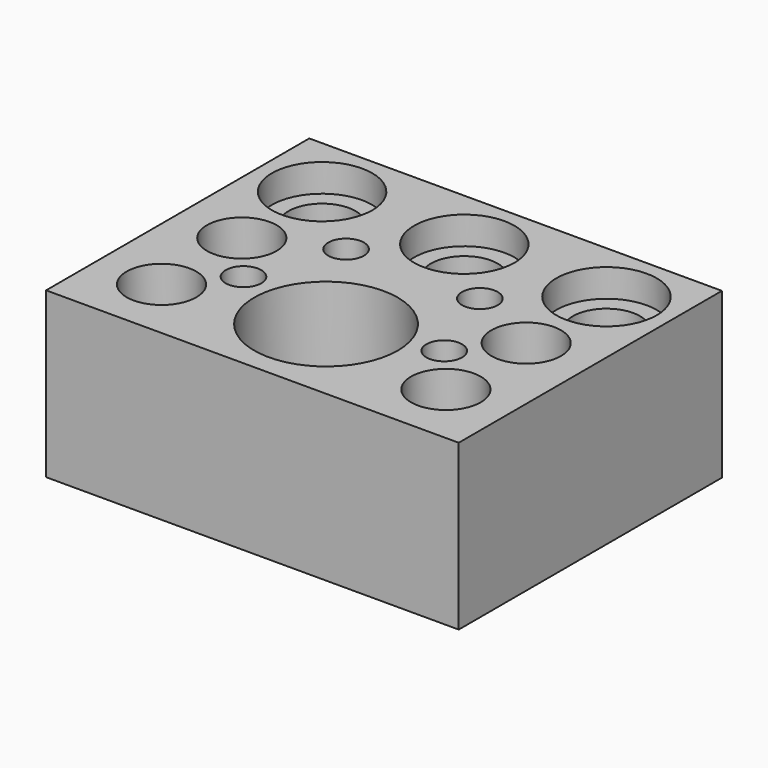
from build123d import *

# Parameters (mm, degrees)
F0_W      = 148
F0_H      = 118
F1_DEPTH  = 59
F2_R      = 14
F3_DEPTH  = 50.5
F2_R_2    = 25.75
F4_DEPTH  = 28
F2_R_3    = 12
F5_DEPTH  = 21.5
F2_R_4    = 18
F6_DEPTH  = 10
F2_R_5    = 6.4
F7_DEPTH  = 8.5
F2_R_6    = 12.5
F8_DEPTH  = 20
F9_W      = 140
F9_H      = 110
F10_DEPTH = 4


with BuildPart() as f1:
    # F0 (on Top) → F1 (new body)
    with BuildSketch(Plane.XY):
        Rectangle(F0_W, F0_H)
    extrude(amount=F1_DEPTH)

    # F2 (on face) → F3 (cut)
    with BuildSketch(Plane.XY.offset(59)):
        with Locations((0, -26)):
            Circle(F2_R)
    extrude(amount=-F3_DEPTH, mode=Mode.SUBTRACT)

    # F2 (on face) → F4 (cut)
    with BuildSketch(Plane.XY.offset(59)):
        with Locations((0, -26)):
            Circle(F2_R_2)
        with Locations((0, -26)):
            Circle(F2_R, mode=Mode.SUBTRACT)
    extrude(amount=-F4_DEPTH, mode=Mode.SUBTRACT)

    # F2 (on face) → F5 (cut)
    with BuildSketch(Plane.XY.offset(59)):
        with Locations((-51, 36)):
            Circle(F2_R_3)
        with Locations((0, 36)):
            Circle(F2_R_3)
        with Locations((51, 36)):
            Circle(F2_R_3)
    extrude(amount=-F5_DEPTH, mode=Mode.SUBTRACT)

    # F2 (on face) → F6 (cut)
    with BuildSketch(Plane.XY.offset(59)):
        with Locations((-51, 36)):
            Circle(F2_R_4)
        with Locations((-51, 36)):
            Circle(F2_R_3, mode=Mode.SUBTRACT)
        with Locations((0, 36)):
            Circle(F2_R_4)
        with Locations((0, 36)):
            Circle(F2_R_3, mode=Mode.SUBTRACT)
        with Locations((51, 36)):
            Circle(F2_R_4)
        with Locations((51, 36)):
            Circle(F2_R_3, mode=Mode.SUBTRACT)
    extrude(amount=-F6_DEPTH, mode=Mode.SUBTRACT)

    # F2 (on face) → F7 (cut)
    with BuildSketch(Plane.XY.offset(59)):
        with Locations((-36, -18)):
            Circle(F2_R_5)
        with Locations((-24, 13)):
            Circle(F2_R_5)
        with Locations((24, 13)):
            Circle(F2_R_5)
        with Locations((36, -18)):
            Circle(F2_R_5)
    extrude(amount=-F7_DEPTH, mode=Mode.SUBTRACT)

    # F2 (on face) → F8 (cut)
    with BuildSketch(Plane.XY.offset(59)):
        with Locations((-51, -36)):
            Circle(F2_R_6)
        with Locations((-51, 0)):
            Circle(F2_R_6)
        with Locations((51, 0)):
            Circle(F2_R_6)
        with Locations((51, -36)):
            Circle(F2_R_6)
    extrude(amount=-F8_DEPTH, mode=Mode.SUBTRACT)

    # F9 (on face) → F10 (cut)
    with BuildSketch(Plane.XY):
        Rectangle(F9_W, F9_H)
    extrude(amount=F10_DEPTH, mode=Mode.SUBTRACT)


solid = f1.part
